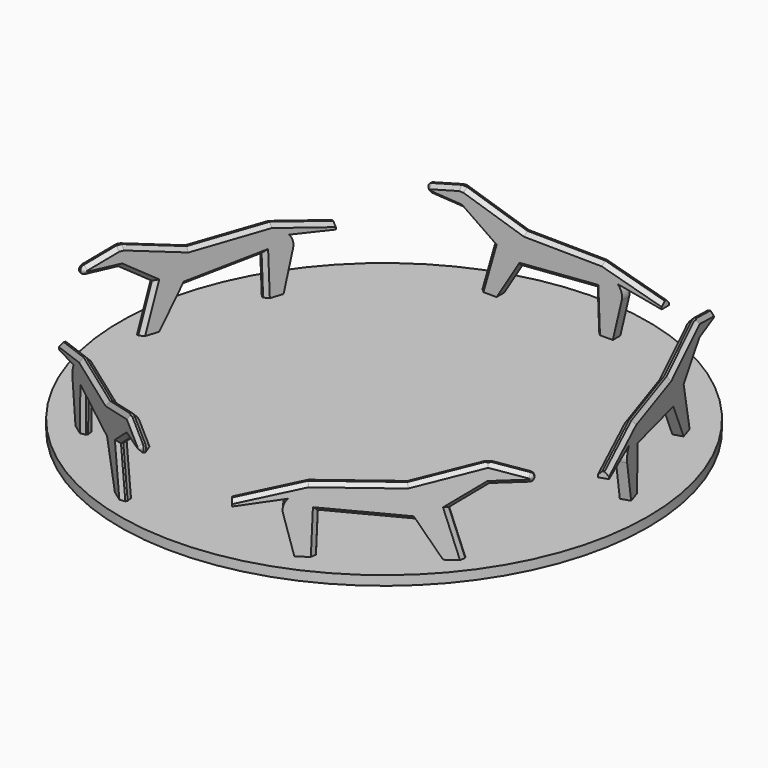
from build123d import *

# Parameters (mm, degrees)
F1_DEPTH = 2.5
F2_SIZE  = 2
F4_COUNT = 5
F5_R     = 140
F6_DEPTH = 5


with BuildPart() as f1:
    # F0 (on Front) → F1 (new body, symmetric)
    with BuildSketch(Plane.XZ):
        with BuildLine():
            Line((-35.0380504156, 0), (-21.1110303903, 22.8617201424))
            ThreePointArc((-21.1110303903, 22.8617201424), (-24.3893805365, 33.2717996161), (-34.2696694327, 28.635289543))
            Line((-34.2696694327, 28.635289543), (-42.497669361, 0))
            Line((-42.497669361, 0), (-35.0380504156, 0))
        make_face()
        with BuildLine():
            ThreePointArc((-34.2696694327, 28.635289543), (-24.3893805365, 33.2717996161), (-21.1110303903, 22.8617201424))
            Line((-21.1110303903, 22.8617201424), (20.0685418026, 26.0697374251))
            Line((20.0685418026, 26.0697374251), (20.0576143838, 26.3664914141))
            ThreePointArc((20.0576143838, 26.3664914141), (24.2713997386, 33.21877344), (32.2169160567, 31.9623792276))
            Line((32.2169160567, 31.9623792276), (55.5854574027, 27.6958938143))
            Line((55.5854574027, 27.6958938143), (55.5854574027, 30.8957055325))
            Line((55.5854574027, 30.8957055325), (24.0779622823, 39.4685052376))
            Line((24.0779622823, 39.4685052376), (-17.1487470537, 39.8797947693))
            Line((-17.1487470537, 39.8797947693), (-49.223697409, 50))
            ThreePointArc((-49.223697409, 50), (-45.8065853368, 44.3081667658), (-51.0409713158, 40.2246849301))
            Line((-51.0409713158, 40.2246849301), (-34.2696694327, 28.635289543))
        make_face()
        with BuildLine():
            Line((20.0746028951, 26.0702096031), (20.0685418026, 26.0697374251))
            Line((20.0685418026, 26.0697374251), (21.0285118484, 0))
            Line((21.0285118484, 0), (28.4881307938, 0))
            Line((28.4881307938, 0), (34.3592126607, 24.9742452507))
            ThreePointArc((34.3592126607, 24.9742452507), (34.233215905, 28.7580598248), (32.2169160567, 31.9623792276))
            ThreePointArc((32.2169160567, 31.9623792276), (24.2713997386, 33.21877344), (20.0576143838, 26.3664914141))
            ThreePointArc((20.0576143838, 26.3664914141), (20.0645923802, 26.2182635678), (20.0746028951, 26.0702096031))
        make_face()
        with BuildLine():
            Line((20.0576143838, 26.3664914141), (20.0685418026, 26.0697374251))
            Line((20.0685418026, 26.0697374251), (20.0746028951, 26.0702096031))
            ThreePointArc((20.0746028951, 26.0702096031), (20.0645923802, 26.2182635678), (20.0576143838, 26.3664914141))
        make_face()
        with BuildLine():
            Line((-67.6294792954, 41.2541708728), (-51.0409713158, 40.2246849301))
            ThreePointArc((-51.0409713158, 40.2246849301), (-55.713579518, 44.7170561034), (-52.0405602368, 50.0578046959))
            Line((-52.0405602368, 50.0578046959), (-68.0825654536, 45.7112535438))
            ThreePointArc((-68.0825654536, 45.7112535438), (-66.1093532539, 45.3230568887), (-65.2186345804, 43.5200362917))
            ThreePointArc((-65.2186345804, 43.5200362917), (-65.9340793687, 41.865775253), (-67.6294792954, 41.2541708728))
        make_face()
        with BuildLine():
            ThreePointArc((-52.0405602368, 50.0578046959), (-55.713579518, 44.7170561034), (-51.0409713158, 40.2246849301))
            ThreePointArc((-51.0409713158, 40.2246849301), (-45.8065853368, 44.3081667658), (-49.223697409, 50))
            Line((-49.223697409, 50), (-52.0405602368, 50.0578046959))
        make_face()
        with BuildLine():
            ThreePointArc((-68.0825654536, 45.7112535438), (-69.7474440454, 43.290439136), (-67.6294792954, 41.2541708728))
            ThreePointArc((-67.6294792954, 41.2541708728), (-65.9340793687, 41.865775253), (-65.2186345804, 43.5200362917))
            ThreePointArc((-65.2186345804, 43.5200362917), (-66.1093532539, 45.3230568887), (-68.0825654536, 45.7112535438))
        make_face()
    extrude(amount=F1_DEPTH, both=True)

    # F2 (call 1 of 5: OpenCascade refuses the feature's edges together)
    f2_edges = [f1.edges().sort_by_distance(p)[0] for p in [
        (-60.061563, -2.5, 47.884529),
        (-50.632129, -2.5, 50.028902),
        (-42.65532, -2.5, 34.429987),
        (-38.383669, -2.5, 14.317645),
        (-33.186222, -2.5, 44.939897),
        (3.464608, -2.5, 39.67415),
        (39.83171, -2.5, 35.182105),
    ]]
    chamfer(f2_edges, length=F2_SIZE)

    # F2#2 (call 2 of 5)
    f2_2_edges = [f1.edges().sort_by_distance(p)[0] for p in [
        (-0.521244, -2.5, 24.465729),
        (20.548527, -2.5, 13.034869),
    ]]
    chamfer(f2_2_edges, length=F2_SIZE)

    # F2#3 (call 3 of 5)
    f2_3_edges = [f1.edges().sort_by_distance(p)[0] for p in [
        (39.83171, 2.5, 35.182105),
        (3.464608, 2.5, 39.67415),
        (-33.186222, 2.5, 44.939897),
    ]]
    chamfer(f2_3_edges, length=F2_SIZE)

    # F2#4 (call 4 of 5)
    f2_4_edges = [f1.edges().sort_by_distance(p)[0] for p in [
        (-60.061563, 2.5, 47.884529),
        (-42.65532, 2.5, 34.429987),
        (-38.383669, 2.5, 14.317645),
    ]]
    chamfer(f2_4_edges, length=F2_SIZE)

    # F2#5 (call 5 of 5)
    f2_5_edges = [f1.edges().sort_by_distance(p)[0] for p in [
        (-0.521244, 2.5, 24.465729),
        (20.548527, 2.5, 13.034869),
    ]]
    chamfer(f2_5_edges, length=F2_SIZE)


with BuildPart() as f4_1:
    # F4: instance of F1
    add(f1.part.rotate(Axis((0, -120, 11.8727907538), (0, 0, -1)), 1 * 360 / F4_COUNT))


with BuildPart() as f4_2:
    # F4: instance of F1
    add(f1.part.rotate(Axis((0, -120, 11.8727907538), (0, 0, -1)), 2 * 360 / F4_COUNT))


with BuildPart() as f4_3:
    # F4: instance of F1
    add(f1.part.rotate(Axis((0, -120, 11.8727907538), (0, 0, -1)), 3 * 360 / F4_COUNT))


with BuildPart() as f4_4:
    # F4: instance of F1
    add(f1.part.rotate(Axis((0, -120, 11.8727907538), (0, 0, -1)), 4 * 360 / F4_COUNT))


with BuildPart() as f6:
    # F5 (on Top) → F6 (new body)
    with BuildSketch(Plane.XY):
        with Locations((0, -117.0725937268)):
            Circle(F5_R)
    extrude(amount=F6_DEPTH)


solid = Compound([f1.part, f4_1.part, f4_2.part, f4_3.part, f4_4.part, f6.part])
